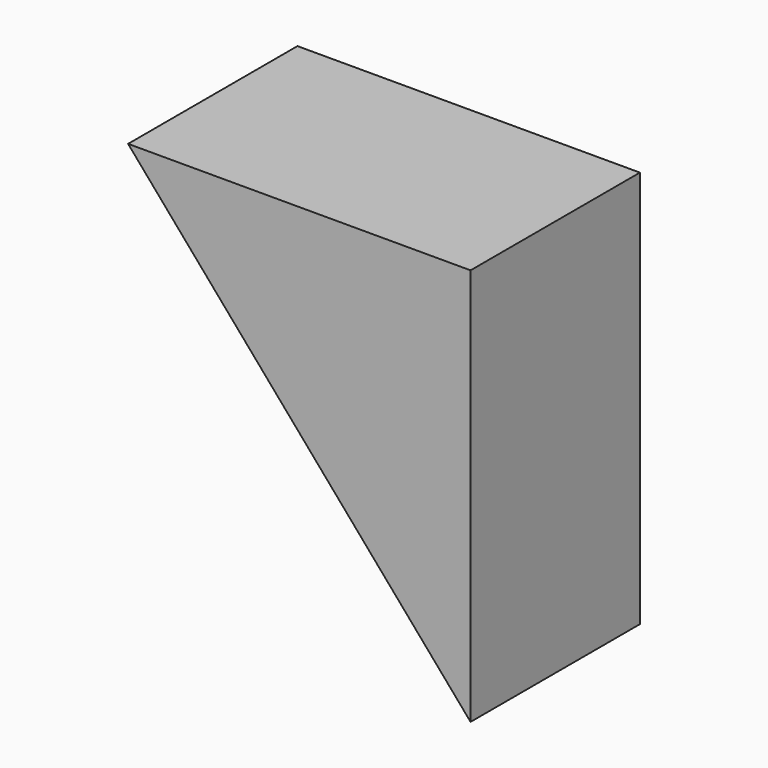
from build123d import *

# Parameters (mm, degrees)
F1_DEPTH = 8.89
F2_T     = -2.54


with BuildPart() as f1:
    # F0 (on Front) → F1 (new body)
    with BuildSketch(Plane.XZ):
        Polygon((-14.381965, 16.696302), (0, 0), (0, 16.696302), align=None)
    extrude(amount=F1_DEPTH)

    # F2
    f2_openings = [f1.faces().sort_by_distance(p)[0] for p in [
        (-7.190982, -4.445, 8.348151),
    ]]
    offset(amount=F2_T, openings=f2_openings)


solid = f1.part
